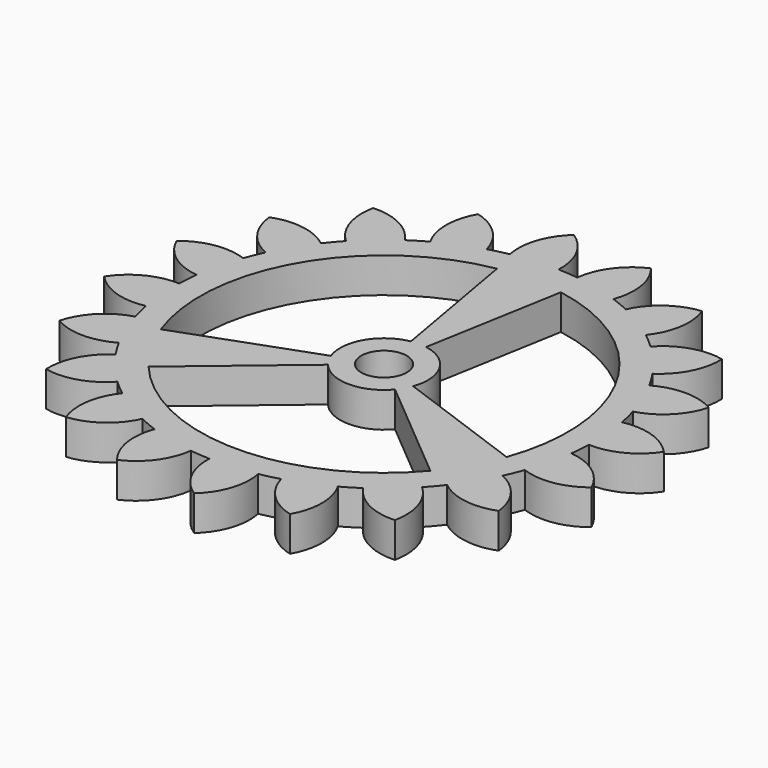
from build123d import *

# Parameters (mm, degrees)
F0_R      = 30.48
F1_DEPTH  = 5.08
F3_DEPTH  = 5.08
F4_COUNT  = 20
F5_R      = 26.67
F6_DEPTH  = 5.081
F7_DEPTH  = 5.081
F9_DEPTH  = 5.08
F10_COUNT = 3
F11_R     = 3.302
F12_DEPTH = 5.081


with BuildPart() as f1:
    # F0 (on Top) → F1 (new body)
    with BuildSketch(Plane.XY):
        Circle(F0_R)
    extrude(amount=F1_DEPTH)

    # F4: F3 ×20 about axis
    f4_axis = Axis((0, 0, 5.08), (0, 0, 1))


with BuildPart() as f3:
    # F2 (on face) → F3 (new body, through all)
    with BuildSketch(Plane.XY.offset(5.08)):
        with BuildLine():
            Line((-5.7019906833, 29.9389965966), (0.9482987996, 30.4623857298))
            ThreePointArc((0.9482987996, 30.4623857298), (-0.0033837458, 34.8376195512), (-3.0033778465, 38.1615338182))
            ThreePointArc((-3.0033778465, 38.1615338182), (-5.4464622915, 34.4092399792), (-5.7019906833, 29.9389965966))
        make_face()
    extrude(amount=-F3_DEPTH)


with BuildPart() as f1_1:
    add(f1.part)
    for i in range(1, F4_COUNT):
        add(f3.part.rotate(f4_axis, i * 360 / F4_COUNT))

    # F5 (on face) → F6 (cut, through all)
    with BuildSketch(Plane.XY.offset(5.08)):
        Circle(F5_R)
    extrude(amount=-F6_DEPTH, mode=Mode.SUBTRACT)

    # F5 (on face) → F7 (cut, through all)
    with BuildSketch(Plane.XY.offset(5.08)):
        Circle(F5_R)
    extrude(amount=-F7_DEPTH, mode=Mode.SUBTRACT)



with BuildPart() as f9:
    # F8 (on face) → F9 (new body, through all)
    with BuildSketch(Plane.XY.offset(5.08)):
        with BuildLine():
            Line((-4.6311968984, 26.2648227728), (-1.1026659282, 6.2535292316))
            ThreePointArc((-1.1026659282, 6.2535292316), (0, -6.35), (1.1026659282, 6.2535292316))
            Line((1.1026659282, 6.2535292316), (4.6311968984, 26.2648227728))
            ThreePointArc((4.6311968984, 26.2648227728), (0, 26.67), (-4.6311968984, 26.2648227728))
        make_face()
    extrude(amount=-F9_DEPTH)


with BuildPart() as f1_2:
    add(f1_1.part)

    add(f3.part)  # F10 merges F3

    add(f9.part)  # F10 merges F9
    # F10: F9 ×3 about axis
    f10_axis = Axis((0, 0, 5.08), (0, 0, 1))
    for i in range(1, F10_COUNT):
        add(f9.part.rotate(f10_axis, i * 360 / F10_COUNT))

    # F11 (on face) → F12 (cut, through all)
    with BuildSketch(Plane.XY.offset(5.08)):
        Circle(F11_R)
    extrude(amount=-F12_DEPTH, mode=Mode.SUBTRACT)


solid = f1_2.part
